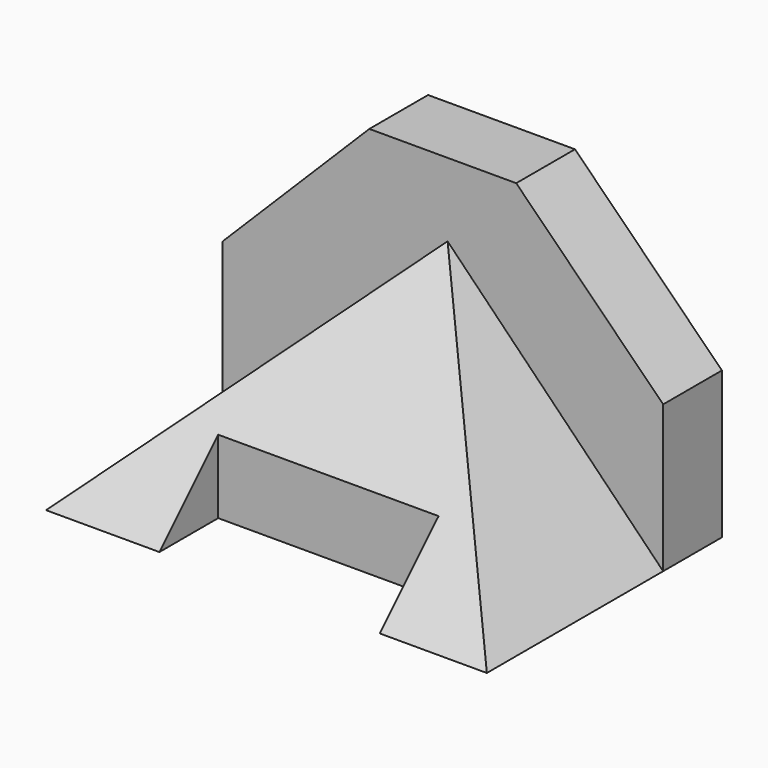
from build123d import *

# Parameters (mm, degrees)
F1_DEPTH = 6.35
F3_DEPTH = 38.1
F5_DEPTH = 76.2
F6_W     = 38.1
F6_H     = 12.7
F7_DEPTH = 25.4


with BuildPart() as f1:
    # F0 (on Front) → F1 (new body, symmetric)
    with BuildSketch(Plane.XZ):
        Polygon((-38.934134, 25.4), (-38.934134, 0), (37.265866, 0), (37.265866, 25.4), (11.865866, 50.8), (-13.534134, 50.8), align=None)
    extrude(amount=F1_DEPTH, both=True)

    # F2 (on face) → F3 (join)
    with BuildSketch(Plane.XZ.offset(6.35)):
        Polygon((0, 38.1), (-38.934134, 0), (37.265866, 0), align=None)
    extrude(amount=F3_DEPTH)

    # F4 (on face) → F5 (cut)
    with BuildSketch(Plane.YZ.offset(37.265866)):
        Polygon((-44.45, 38.1), (-44.45, 0), (-6.35, 38.1), align=None)
    extrude(amount=-F5_DEPTH, mode=Mode.SUBTRACT)

    # F6 (on face) → F7 (cut)
    with BuildSketch(Plane(origin=(0, 0, 0), x_dir=(1, 0, 0), z_dir=(0, 0, -1))):
        with Locations((-0.28891, 38.1)):
            Rectangle(F6_W, F6_H)
    extrude(amount=-F7_DEPTH, mode=Mode.SUBTRACT)


solid = f1.part
